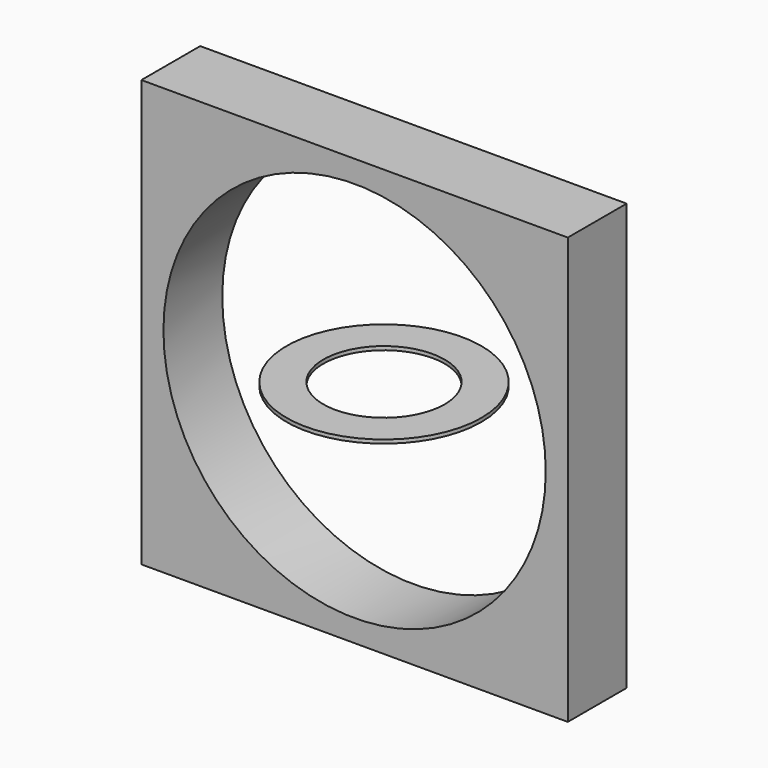
from build123d import *

# Parameters (mm, degrees)
F0_W     = 116
F0_H     = 116
F0_R     = 52
F1_DEPTH = 10
F2_R     = 26.5
F2_R_2   = 16.5
F3_DEPTH = 0.5


with BuildPart() as f1:
    # F0 (on Front) → F1 (new body, symmetric)
    with BuildSketch(Plane.XZ):
        Rectangle(F0_W, F0_H)
        Circle(F0_R, mode=Mode.SUBTRACT)
    extrude(amount=F1_DEPTH, both=True)


with BuildPart() as f3:
    # F2 (on Top) → F3 (new body, symmetric)
    with BuildSketch(Plane.XY):
        Circle(F2_R)
        Circle(F2_R_2, mode=Mode.SUBTRACT)
    extrude(amount=F3_DEPTH, both=True)


solid = Compound([f1.part, f3.part])
